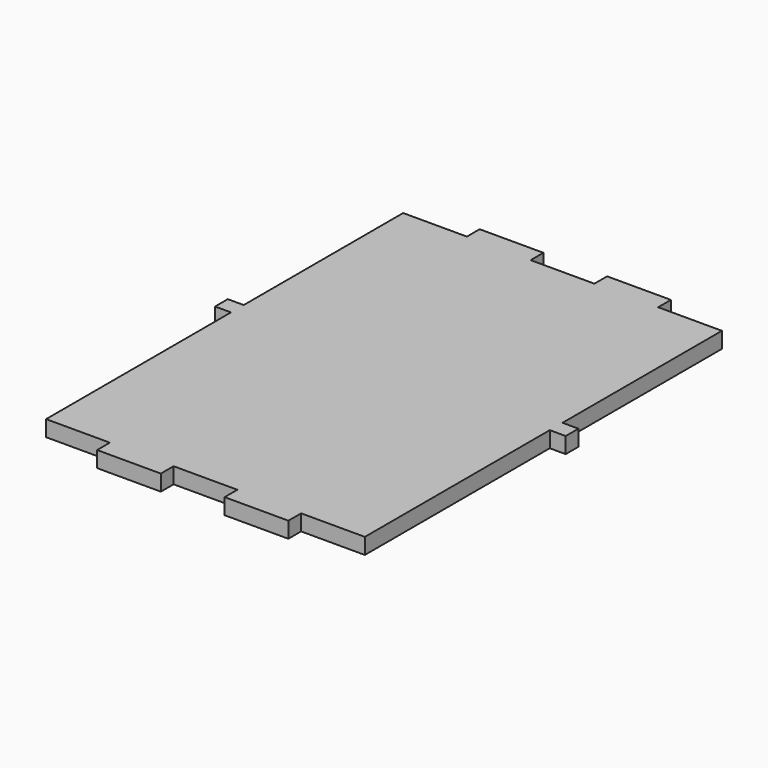
from build123d import *

# Parameters (mm, degrees)
F1_DEPTH = 12.7


with BuildPart() as f1:
    # F0 (on Top) → F1 (new body)
    with BuildSketch(Plane.XY):
        Polygon((-25.4, 12.7), (-76.2, 12.7), (-76.2, 0), (-127, 0), (-127, -158.75), (-139.7, -158.75), (-139.7, -171.45), (-127, -171.45), (-127, -355.6), (-76.2, -355.6), (-76.2, -368.3), (-25.4, -368.3), (-25.4, -355.6), (25.4, -355.6), (25.4, -368.3), (76.2, -368.3), (76.2, -355.6), (127, -355.6), (127, -171.45), (139.7, -171.45), (139.7, -158.75), (127, -158.75), (127, 0), (76.2, 0), (76.2, 12.7), (25.4, 12.7), (25.4, 0), (-25.4, 0), align=None)
    extrude(amount=F1_DEPTH)


solid = f1.part
